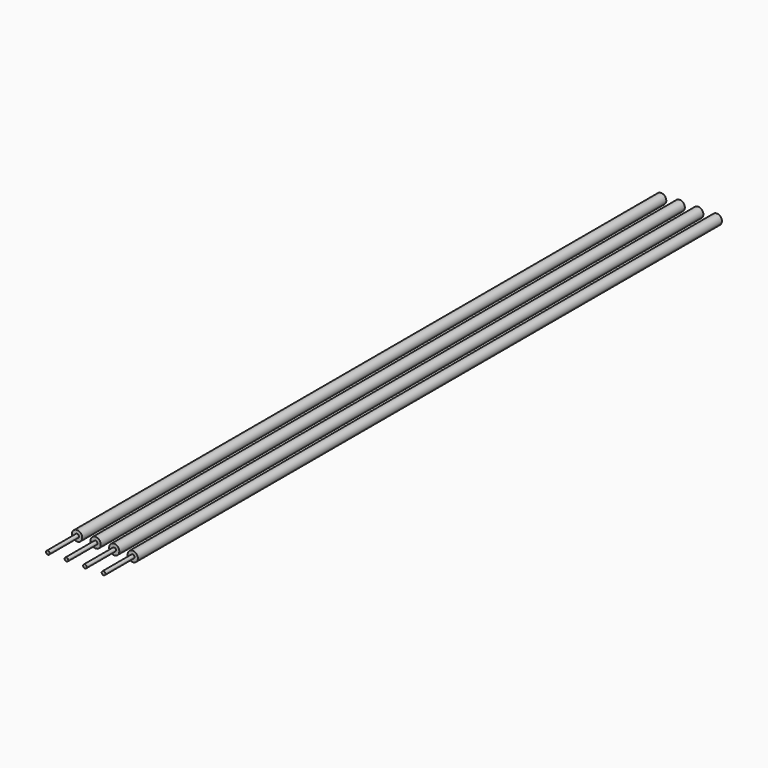
from build123d import *

# Parameters (mm, degrees)
F0_R     = 1.4
F0_R_2   = 0.5
F1_DEPTH = 200
F2_DEPTH = 210


with BuildPart() as f1:
    # F0 (on Front) → F1 (new body)
    with BuildSketch(Plane.XZ):
        with Locations((-7.62, 0)):
            Circle(F0_R)
        with Locations((-7.62, 0)):
            Circle(F0_R_2, mode=Mode.SUBTRACT)
        with Locations((-2.54, 0)):
            Circle(F0_R)
        with Locations((-2.54, 0)):
            Circle(F0_R_2, mode=Mode.SUBTRACT)
        with Locations((2.54, 0)):
            Circle(F0_R)
        with Locations((2.54, 0)):
            Circle(F0_R_2, mode=Mode.SUBTRACT)
        with Locations((7.62, 0)):
            Circle(F0_R)
        with Locations((7.62, 0)):
            Circle(F0_R_2, mode=Mode.SUBTRACT)
    extrude(amount=F1_DEPTH)


with BuildPart() as f2:
    # F0 (on Front) → F2 (new body)
    with BuildSketch(Plane.XZ):
        with Locations((7.62, 0)):
            Circle(F0_R_2)
        with Locations((2.54, 0)):
            Circle(F0_R_2)
        with Locations((-2.54, 0)):
            Circle(F0_R_2)
        with Locations((-7.62, 0)):
            Circle(F0_R_2)
    extrude(amount=F2_DEPTH)


solid = Compound([f1.part, f2.part])
